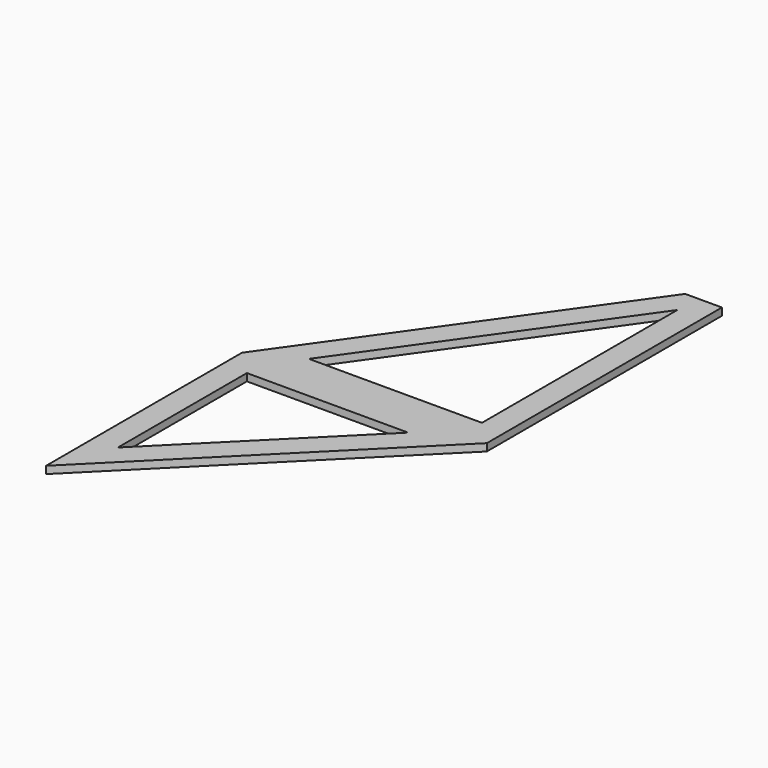
from build123d import *

# Parameters (mm, degrees)
F1_DEPTH = 1.5


with BuildPart() as f1:
    # F0 (on Top) → F1 (new body)
    with BuildSketch(Plane.XY):
        Polygon((42.5, 60), (0, 0), (50, 0), (50, 60), align=None)
        Polygon((9.668934, 5), (45, 54.879152), (45, 5), align=None, mode=Mode.SUBTRACT)
        Polygon((50, 0), (0, 0), (0, -50), align=None)
        Polygon((5, -37.928932), (5, -5), (37.928932, -5), align=None, mode=Mode.SUBTRACT)
    extrude(amount=F1_DEPTH)


solid = f1.part
